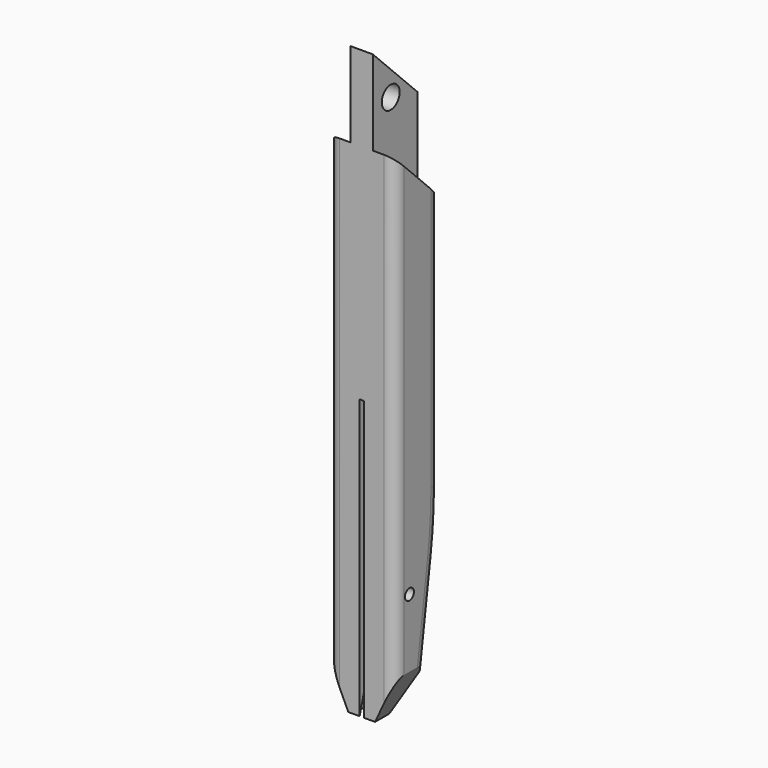
from build123d import *

# Parameters (mm, degrees)
F1_DEPTH  = 150
F2_DEPTH  = 50
F3_W      = 20
F3_H      = 1250
F4_DEPTH  = 307
F5_R      = 25
F6_DEPTH  = 300.001
F7_R      = 50
F8_DEPTH  = 100
F10_DEPTH = 223
F12_DEPTH = 60
F15_R     = 40
F16_DEPTH = 320
F17_R     = 50


with BuildPart() as f1:
    # F0 (on Right) → F1 (new body, symmetric)
    with BuildSketch(Plane.YZ):
        with BuildLine():
            Line((0, 2250), (0, 0))
            Line((0, 0), (80, 0))
            Line((80, 0), (176.4553832609, 206.8492369235))
            Line((176.4553832609, 206.8492369235), (230.5361374831, 591.6537980799))
            ThreePointArc((230.5361374831, 591.6537980799), (245.1281005196, 730.4870525117), (250, 870))
            Line((250, 870), (250, 2000))
            Line((250, 2000), (0, 2250))
        make_face()
    extrude(amount=F1_DEPTH, both=True)

    # F0 (on Right) → F2 (join, symmetric)
    with BuildSketch(Plane.YZ):
        Polygon((0, 2630), (0, 2250), (250, 2000), (250, 2380), align=None)
    extrude(amount=F2_DEPTH, both=True)

    # F3 (on face) → F4 (cut)
    with BuildSketch(Plane(origin=(0, 250, 0), x_dir=(-1, 0, 0), z_dir=(0, 1, 0))):
        with Locations((0, 625)):
            Rectangle(F3_W, F3_H)
    extrude(amount=-F4_DEPTH, mode=Mode.SUBTRACT)

    # F5 (on face) → F6 (cut, through all)
    with BuildSketch(Plane(origin=(-150, 0, 0), x_dir=(0, -1, 0), z_dir=(-1, 0, 0))):
        with Locations((-80, 500)):
            Circle(F5_R)
    extrude(amount=-F6_DEPTH, mode=Mode.SUBTRACT)

    # F7 (on face) → F8 (cut, through all)
    with BuildSketch(Plane(origin=(-50, 0, 0), x_dir=(0, -1, 0), z_dir=(-1, 0, 0))):
        with Locations((-100, 2420)):
            Circle(F7_R)
    extrude(amount=-F8_DEPTH, mode=Mode.SUBTRACT)

    # F9 (on face) → F10 (cut)
    with BuildSketch(Plane.XZ):
        Polygon((150, 193.0056228459), (60, 0), (150, 0), align=None)
        Polygon((-150, 0), (-60, 0), (-150, 193.0056228459), align=None)
    extrude(amount=-F10_DEPTH, mode=Mode.SUBTRACT)

    # F11 (on Right) → F12 (cut, symmetric)
    with BuildSketch(Plane.YZ):
        with BuildLine():
            ThreePointArc((245.1281005196, 730.4870525117), (153.8671605949, 523.438334328), (189.5468692569, 300))
            Line((189.5468692569, 300), (230.5361374831, 591.6537980799))
            Line((230.5361374831, 591.6537980799), (245.1281005196, 730.4870525117))
        make_face()
        with BuildLine():
            Line((230.5361374831, 591.6537980799), (189.5468692569, 300))
            Line((189.5468692569, 300), (265.2035057545, 311.2672567368))
            Line((265.2035057545, 311.2672567368), (265.2035057545, 409.1856181622))
            Line((265.2035057545, 409.1856181622), (299.6515530456, 510.0366034563))
            Line((299.6515530456, 510.0366034563), (321.972931721, 722.4103352942))
            Line((321.972931721, 722.4103352942), (245.1281005196, 730.4870525117))
            ThreePointArc((245.1281005196, 730.4870525117), (239.0437907365, 660.9430734647), (230.5361374831, 591.6537980799))
        make_face()
        with BuildLine():
            Line((245.1281005196, 730.4870525117), (230.5361374831, 591.6537980799))
            ThreePointArc((230.5361374831, 591.6537980799), (239.0437907365, 660.9430734647), (245.1281005196, 730.4870525117))
        make_face()
    extrude(amount=F12_DEPTH, both=True, mode=Mode.SUBTRACT)

    # F15 (on face) → F16 (cut)
    with BuildSketch(Plane(origin=(0, 0, 0), x_dir=(1, 0, 0), z_dir=(0, -0.2741839815, -0.9616772558))):
        with Locations((0, -40)):
            Circle(F15_R)
    extrude(amount=-F16_DEPTH, mode=Mode.SUBTRACT)

    # F17
    f17_edges = [f1.edges().sort_by_distance(p)[0] for p in [
        (-150, 250, 1435),
        (150, 250, 1435),
        (-150, 245.128101, 730.487053),
        (-150, 203.49576, 399.251518),
        (150, 203.49576, 399.251518),
        (150, 245.128101, 730.487053),
        (-150, 0, 1221.502811),
        (150, 0, 1221.502811),
    ]]
    fillet(f17_edges, radius=F17_R)


solid = f1.part
